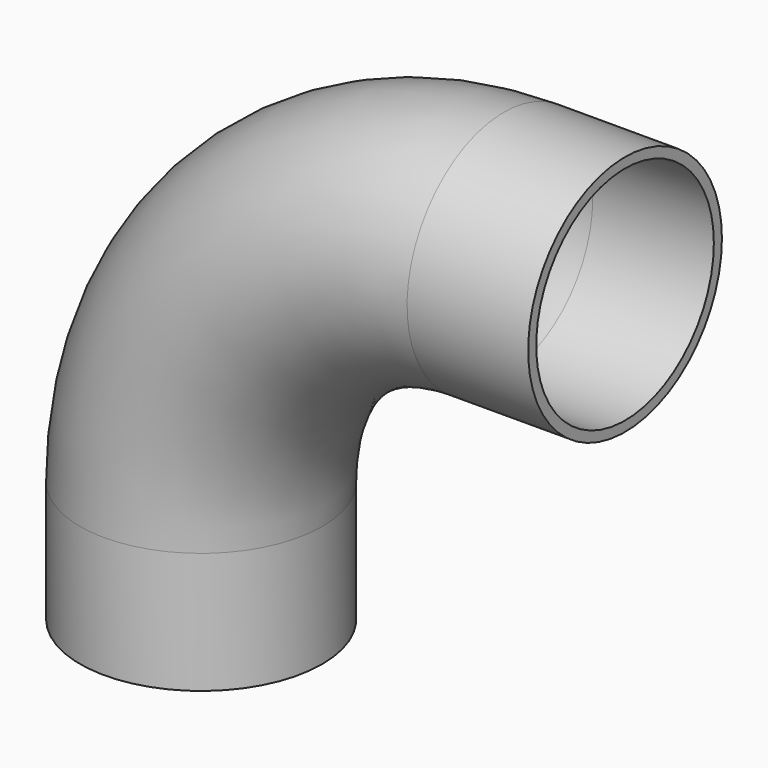
from build123d import *

# Parameters (mm, degrees)
F0_R        = 30
F0_R_2      = 27.5
F3_R        = 30
F3_R_2      = 27.5
F4_DEPTH    = 30
F2_FACE_R   = 30
F2_FACE_R_2 = 27.5
F5_DEPTH    = 30


with BuildPart() as f2:
    # F2: sweep along a path in F1
    with BuildLine(Plane.XZ) as f2_path:
        ThreePointArc((75, 75), (21.966991, 53.033009), (0, 0))
    # F0 (on Top) → F2 (sweep)
    with BuildSketch(Plane.XY):
        Circle(F0_R)
        Circle(F0_R_2, mode=Mode.SUBTRACT)
    sweep(path=f2_path.line)

    # F3 (on face) → F4 (join)
    with BuildSketch(Plane.YZ.offset(75)):
        with Locations((0, 75)):
            Circle(F3_R)
        with Locations((0, 75)):
            Circle(F3_R_2, mode=Mode.SUBTRACT)
    extrude(amount=F4_DEPTH)

    # F2_face (on face) → F5 (join)
    with BuildSketch(Plane(origin=(0, 0, 0), x_dir=(1, 0, 0), z_dir=(0, 0, -1))):
        Circle(F2_FACE_R)
        Circle(F2_FACE_R_2, mode=Mode.SUBTRACT)
    extrude(amount=F5_DEPTH)


solid = f2.part
